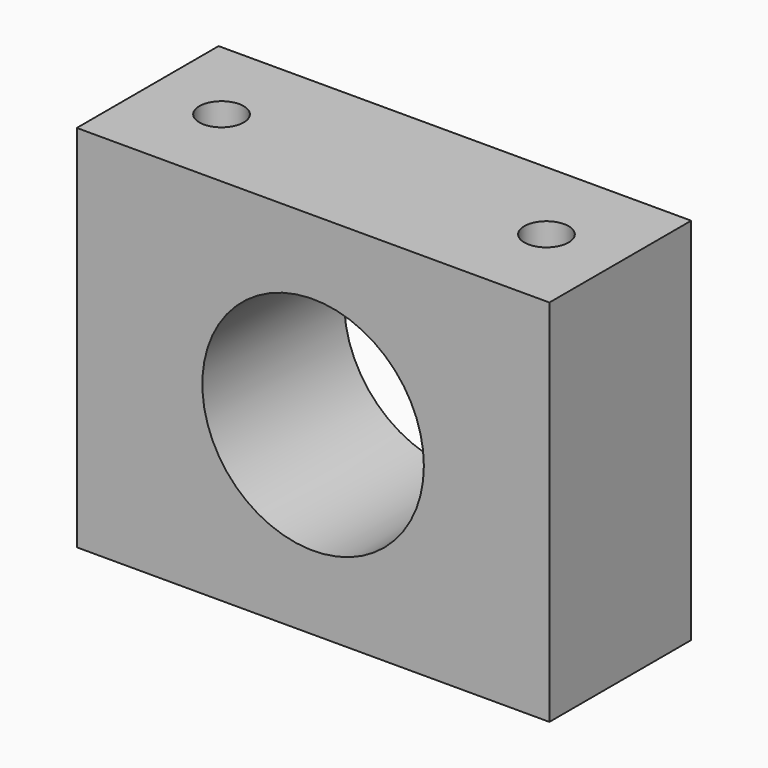
from build123d import *

# Parameters (mm, degrees)
F0_W     = 32
F0_H     = 25
F0_R     = 7.5
F1_DEPTH = 6
F3_D     = 3


with BuildPart() as f1:
    # F0 (on Front) → F1 (new body, symmetric)
    with BuildSketch(Plane.XZ):
        Rectangle(F0_W, F0_H)
        Circle(F0_R, mode=Mode.SUBTRACT)
    extrude(amount=F1_DEPTH, both=True)

    # F3 (through all)
    with Locations(Plane.XY.offset(12.5)):
        with Locations((-11, 0), (11, 0)):
            Hole(F3_D / 2)


solid = f1.part
